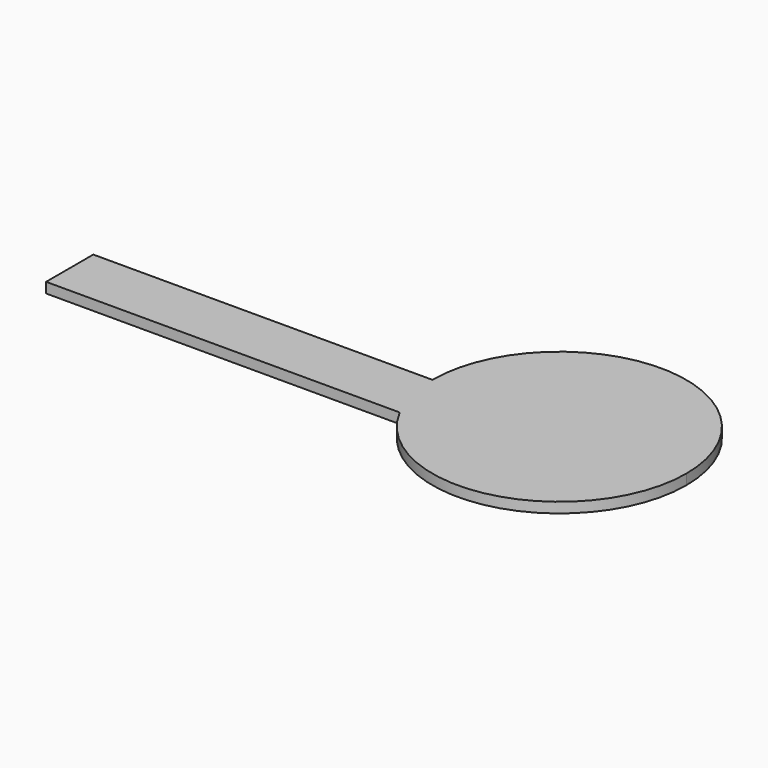
from build123d import *

# Parameters (mm, degrees)
F1_DEPTH = 2.54
F2_DEPTH = 2.54


with BuildPart() as f1:
    # F0 (on Top) → F1 (new body)
    with BuildSketch(Plane.XY):
        with BuildLine():
            ThreePointArc((-27.75137, -14.570951), (-30.432649, -7.503668), (-31.344077, 0))
            Line((-31.344077, 0), (-115.066797, 0))
            Line((-115.066797, 0), (-115.066797, -14.570951))
            Line((-115.066797, -14.570951), (-27.75137, -14.570951))
        make_face()
    extrude(amount=F1_DEPTH)

    # F0 (on Top) → F2 (join)
    with BuildSketch(Plane.XY):
        with BuildLine():
            Line((0, 0), (-31.344077, 0))
            ThreePointArc((-31.344077, 0), (-30.432649, -7.503668), (-27.75137, -14.570951))
            Line((-27.75137, -14.570951), (0, -14.570951))
            Line((0, -14.570951), (0, 0))
        make_face()
        with BuildLine():
            ThreePointArc((-27.75137, -14.570951), (7.503668, -30.432649), (31.344077, 0))
            ThreePointArc((31.344077, 0), (0, 31.344077), (-31.344077, 0))
            Line((-31.344077, 0), (0, 0))
            Line((0, 0), (0, -14.570951))
            Line((0, -14.570951), (-27.75137, -14.570951))
        make_face()
    extrude(amount=F2_DEPTH)


solid = f1.part
